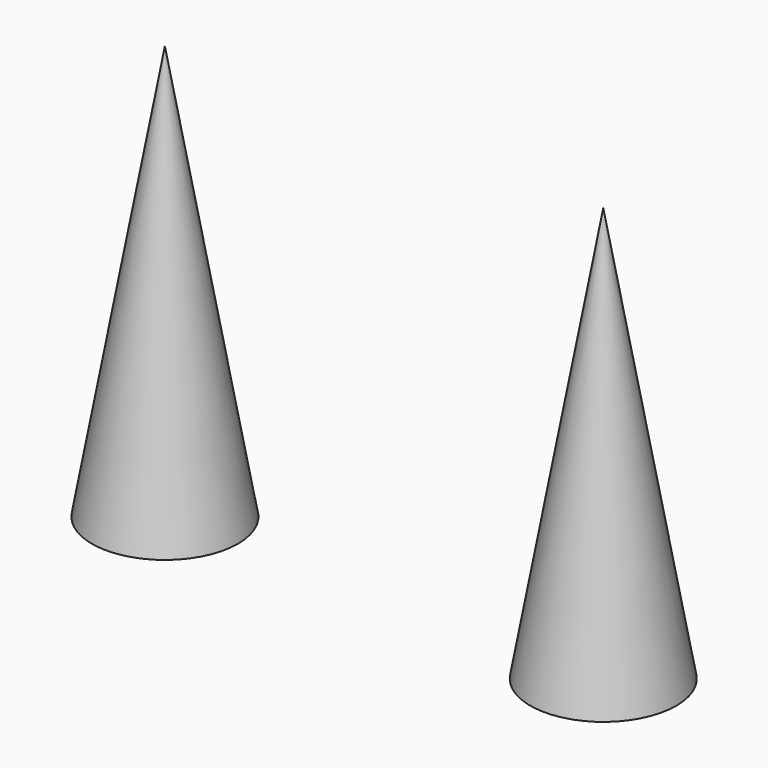
from build123d import *

# Parameters (mm, degrees)
F0_R     = 5
F1_DEPTH = 30
F1_TAPER = 10


with BuildPart() as f1:
    # F0 (on Top) → F1 (new body)
    with BuildSketch(Plane.XY):
        with Locations((-15, 0)):
            Circle(F0_R)
    extrude(amount=F1_DEPTH, taper=F1_TAPER)


with BuildPart() as f1b:
    # F0 (on Top) → F1, piece 2 (new body)
    with BuildSketch(Plane.XY):
        with Locations((15, 0)):
            Circle(F0_R)
    extrude(amount=F1_DEPTH, taper=F1_TAPER)


solid = Compound([f1.part, f1b.part])
